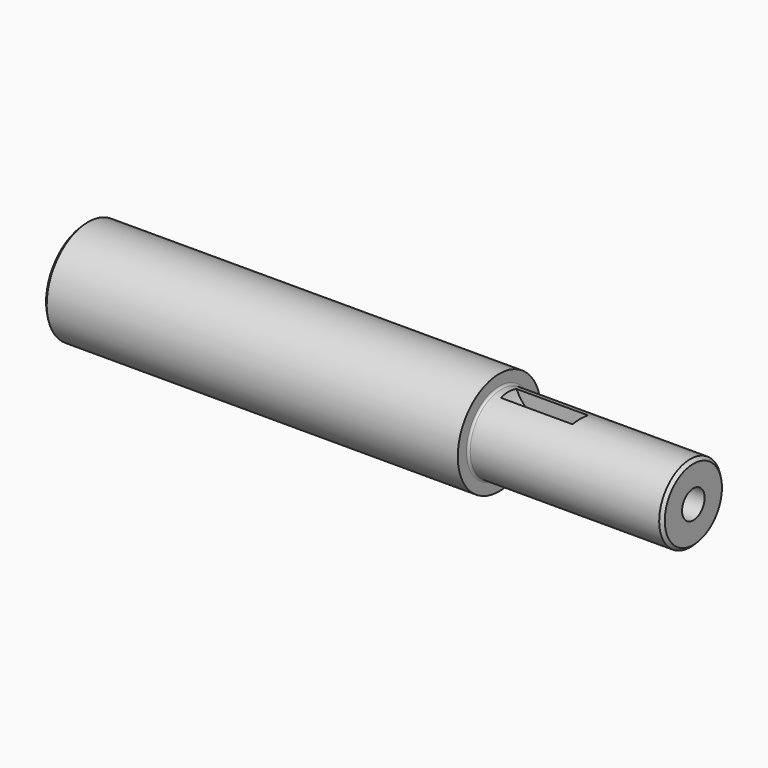
from build123d import *

# Parameters (mm, degrees)
F3_D     = 6.9088
F3_DEPTH = 28.575
F3_TIP   = 2.0756129224
F4_R     = 9.525
F5_DEPTH = 2.38125
F6_R     = 0.508
F7_SIZE  = 0.762


with BuildPart() as f1:
    # F0 (on Front) → F1 (revolve)
    with BuildSketch(Plane.XZ):
        Polygon((-101.6, 12.7), (-101.6, 0), (47.625, 0), (47.625, 9.525), (0, 9.525), (0, 12.7), align=None)
    revolve(axis=Axis((-26.9875, 0, 0), (1, 0, 0)))

    # F3
    with Locations(Plane.YZ.offset(47.625)):
        with Locations((0, 0)):
            Hole(F3_D / 2, depth=F3_DEPTH)
            with Locations((0, 0, -(F3_DEPTH + F3_TIP / 2))):  # 118° drill point
                Cone(0, F3_D / 2, F3_TIP, mode=Mode.SUBTRACT)

    # F4 (on Front) → F5 (cut, symmetric)
    with BuildSketch(Plane.XZ):
        with Locations((11.1125, 12.954)):
            Circle(F4_R)
    extrude(amount=F5_DEPTH, both=True, mode=Mode.SUBTRACT)

    # F6
    f6_edges = [f1.edges().sort_by_distance(p)[0] for p in [
        (0, 0, -9.525),
    ]]
    fillet(f6_edges, radius=F6_R)

    # F7
    f7_edges = [f1.edges().sort_by_distance(p)[0] for p in [
        (-101.6, 0, -12.7),
        (47.625, 0, -9.525),
    ]]
    chamfer(f7_edges, length=F7_SIZE)


solid = f1.part
